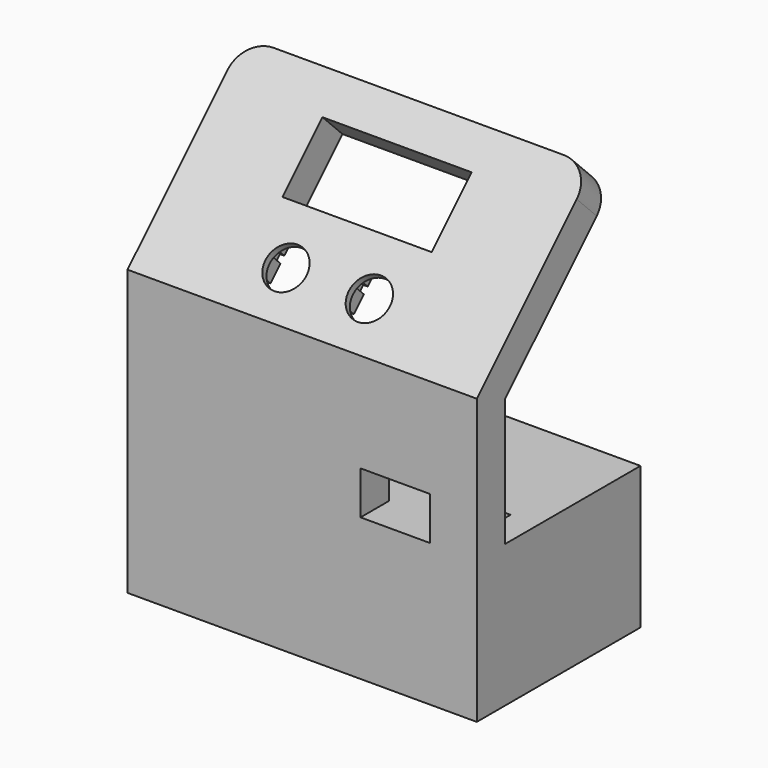
from build123d import *

# Parameters (mm, degrees)
PAD_DEPTH       = 71.2
POCKET_DEPTH    = 5.7
SKETCH001_R     = 4.2
SKETCH001_W     = 14.4
SKETCH001_H     = 30.4
POCKET001_DEPTH = 7.5
SKETCH003_W     = 41.7
SKETCH003_H     = 29
PAD001002_DEPTH = 2
POCKET002_DEPTH = 2
SKETCH005_W     = 2.9
SKETCH005_H     = 10.8
POCKET003_DEPTH = 4
SKETCH006_W     = 8.8
SKETCH006_H     = 14.2
POCKET004_DEPTH = 7.201
FILLET_R        = 6


with BuildPart() as part:
    # Sketch → Pad (new body)
    with BuildSketch(Plane.YZ):
        Polygon((0, 0), (0, 58), (29.698485, 87.698485), (34.789654, 82.607316), (7.2, 55.017662), (7.2, 29), (41.7, 29), (41.7, 26), (12.7, 26), (12.7, 3), (41.7, 3), (41.7, 0), align=None)
    extrude(amount=PAD_DEPTH)

    # Sketch002 (on Face8 of Pad) → Pocket (cut)
    with BuildSketch(Plane(origin=(0, -23.908831, 23.908831), x_dir=(0, 0.707107, 0.707107), z_dir=(0, 0.707107, -0.707107))):
        Polygon((56.394531, 50.3), (56.394531, 37.9), (53.394531, 37.9), (53.394531, 37), (51.994531, 37), (51.994531, 37.9), (48.394531, 37.9), (48.394531, 37), (46.994531, 37), (46.994531, 37.9), (43.994531, 37.9), (43.994531, 50.3), (46.994531, 50.3), (46.994531, 51.2), (48.394531, 51.2), (48.394531, 50.3), (51.994531, 50.3), (51.994531, 51.2), (53.394531, 51.2), (53.394531, 50.3), align=None)
        Polygon((43.994531, 20.9), (46.994531, 20.9), (46.994531, 20), (48.394531, 20), (48.394531, 20.9), (51.994531, 20.9), (51.994531, 20), (53.394531, 20), (53.394531, 20.9), (56.394531, 20.9), (56.394531, 33.3), (53.394531, 33.3), (53.394531, 34.2), (51.994531, 34.2), (51.994531, 33.3), (48.394531, 33.3), (48.394531, 34.2), (46.994531, 34.2), (46.994531, 33.3), (43.994531, 33.3), align=None)
    extrude(amount=-POCKET_DEPTH, mode=Mode.SUBTRACT)

    # Sketch001 (on Face10 of Pocket) → Pocket001 (cut)
    with BuildSketch(Plane(origin=(0, -29, 29), x_dir=(0, -0.707107, -0.707107), z_dir=(0, -0.707107, 0.707107))):
        with Locations((-50.195, 44.1)):
            Circle(SKETCH001_R)
        with Locations((-50.195, 27.1)):
            Circle(SKETCH001_R)
        with Locations((-67.995, 35.6)):
            Rectangle(SKETCH001_W, SKETCH001_H)
    extrude(amount=-POCKET001_DEPTH, mode=Mode.SUBTRACT)

    # Sketch003 (on Face5 of Pocket001) → Pad001002 (join)
    with BuildSketch(Plane.YZ.offset(71.2)):
        with Locations((20.85, 14.5)):
            Rectangle(SKETCH003_W, SKETCH003_H)
    extrude(amount=-PAD001002_DEPTH)

    # Sketch004 (on Face8 of Pad001002) → Pocket002 (cut)
    with BuildSketch(Plane(origin=(0, -23.908831, 23.908831), x_dir=(0, 0.707107, 0.707107), z_dir=(0, 0.707107, -0.707107))):
        with BuildLine():
            ThreePointArc((64.247016, 55.7), (63.347016, 54.8), (64.247016, 53.9))
            Line((64.247016, 53.9), (71.867016, 53.9))
            ThreePointArc((71.867016, 53.9), (72.767016, 54.8), (71.867016, 55.7))
            Line((64.247016, 55.7), (71.867016, 55.7))
        make_face()
        with BuildLine():
            ThreePointArc((64.247016, 13.3), (63.347016, 12.4), (64.247016, 11.5))
            Line((64.247016, 11.5), (71.867016, 11.5))
            ThreePointArc((71.867016, 11.5), (72.767016, 12.4), (71.867016, 13.3))
            Line((64.247016, 13.3), (71.867016, 13.3))
        make_face()
    extrude(amount=-POCKET002_DEPTH, mode=Mode.SUBTRACT)

    # Sketch005 (on Face13 of Pocket002) → Pocket003 (cut)
    with BuildSketch(Plane(origin=(0, 0, 29), x_dir=(0, -1, 0), z_dir=(0, 0, 1))):
        with Locations((-14.15, 60.2)):
            Rectangle(SKETCH005_W, SKETCH005_H)
    extrude(amount=-POCKET003_DEPTH, mode=Mode.SUBTRACT)

    # Sketch006 (on Face11 of Pocket003) → Pocket004 (cut, through all)
    with BuildSketch(Plane.ZX.offset(7.2)):
        with Locations((33.4, 54.6)):
            Rectangle(SKETCH006_W, SKETCH006_H)
    extrude(amount=-POCKET004_DEPTH, mode=Mode.SUBTRACT)

    # Fillet
    fillet_edges = [part.edges().sort_by_distance(p)[0] for p in [
        (71.2, 32.244069, 85.1529),
        (0, 32.244069, 85.1529),
    ]]
    fillet(fillet_edges, radius=FILLET_R)


solid = part.part
